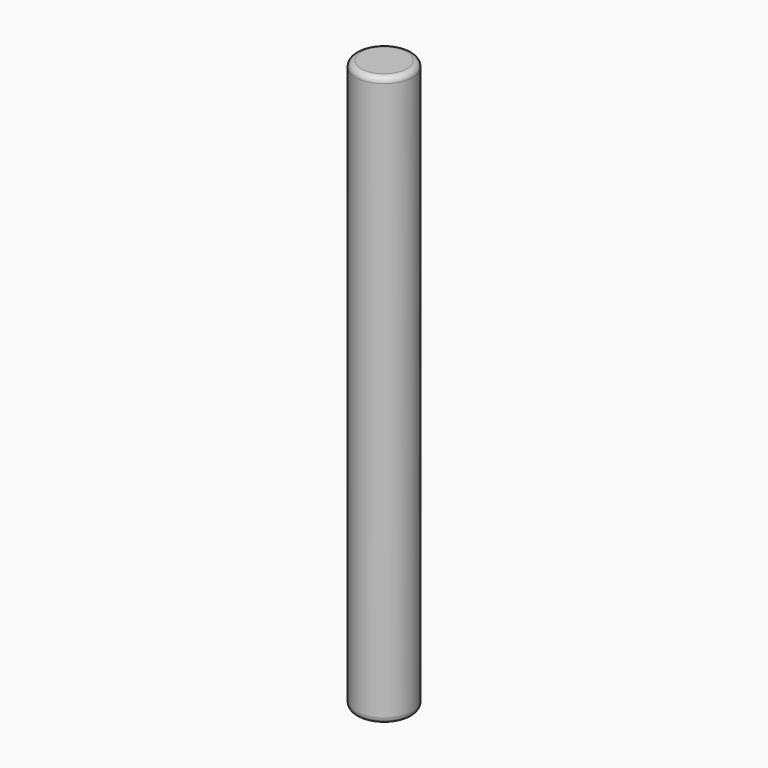
from build123d import *

# Parameters (mm, degrees)
F0_R     = 5
F1_DEPTH = 50
F2_R     = 1
F3_R     = 1


with BuildPart() as f1:
    # F0 (on Top) → F1 (new body, symmetric)
    with BuildSketch(Plane.XY):
        Circle(F0_R)
    extrude(amount=F1_DEPTH, both=True)

    # F2
    f2_edges = [f1.edges().sort_by_distance(p)[0] for p in [
        (-5, 0, 50),
    ]]
    fillet(f2_edges, radius=F2_R)

    # F3
    f3_edges = [f1.edges().sort_by_distance(p)[0] for p in [
        (-5, 0, -50),
    ]]
    fillet(f3_edges, radius=F3_R)


solid = f1.part
